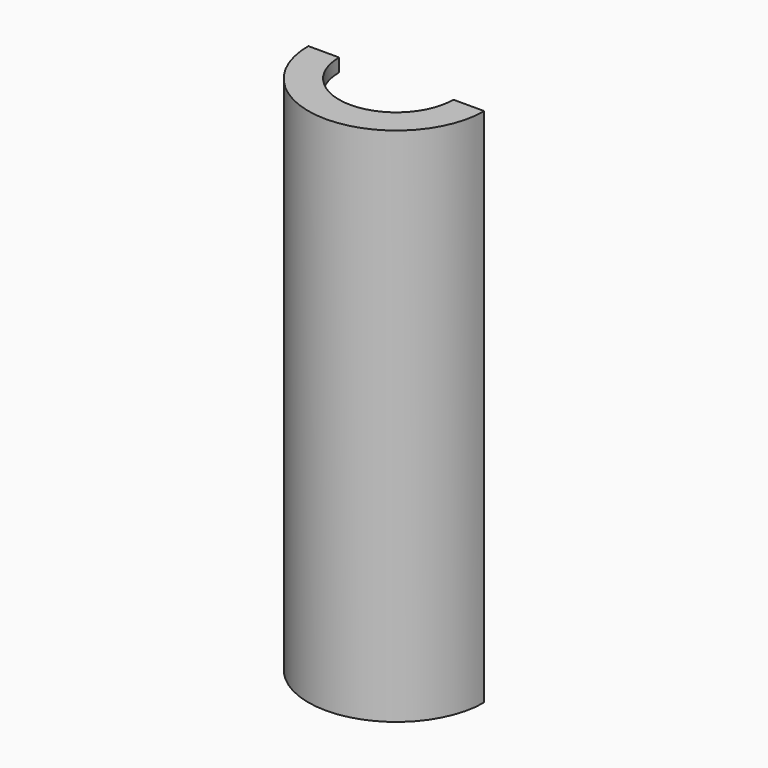
from build123d import *

# Parameters (mm, degrees)
F1_ANGLE = 180


with BuildPart() as f1:
    # F0 (on Front) → F1 (revolve)
    with BuildSketch(Plane.XZ):
        Polygon((-6.5, 57.7), (-6.5, 59.2), (-10, 59.2), (-10, 0), (-5.6, 0), (-5.6, 1.5), (-8.5, 1.5), (-8.5, 4.7), (-4.7, 4.7), (-4.7, 6.2), (-8.5, 6.2), (-8.5, 57.7), align=None)
    revolve(axis=Axis((0, 0, 29.6), (0, 0, 1)), revolution_arc=F1_ANGLE)


solid = f1.part
